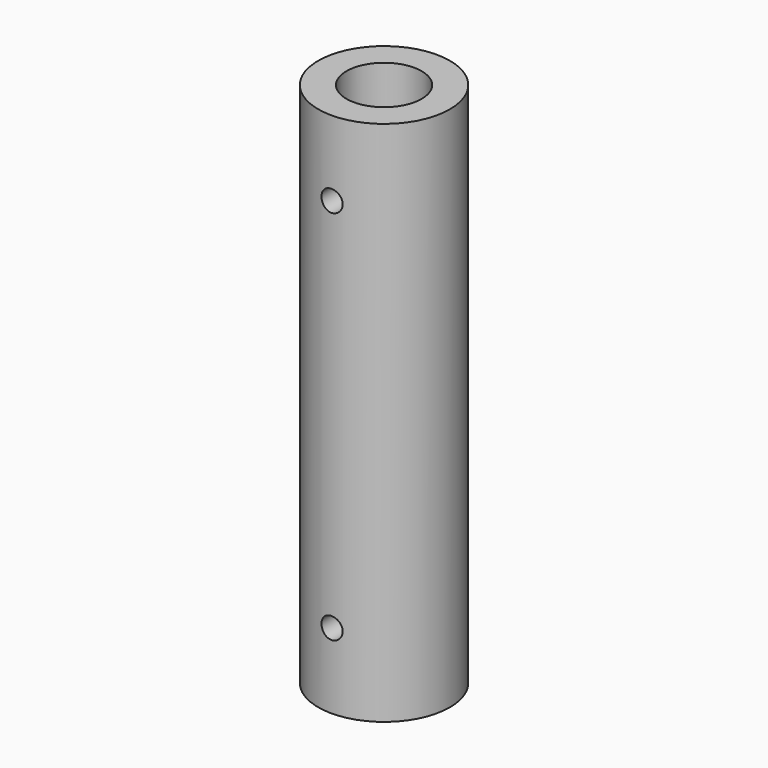
from build123d import *

# Parameters (mm, degrees)
F0_R     = 11.1125
F1_DEPTH = 44.45
F2_R     = 6.35
F3_DEPTH = 88.9
F5_R     = 1.7907
F6_DEPTH = 5.02121863


with BuildPart() as f1:
    # F0 (on Top) → F1 (new body, symmetric)
    with BuildSketch(Plane.XY):
        Circle(F0_R)
    extrude(amount=F1_DEPTH, both=True)

    # F2 (on face) → F3 (cut, through all)
    with BuildSketch(Plane.XY.offset(44.45)):
        Circle(F2_R)
    extrude(amount=-F3_DEPTH, mode=Mode.SUBTRACT)

    # F5 (on offset) → F6 (cut, through all)
    with BuildSketch(Plane.XZ.offset(11.1125)):
        with Locations((0, -31.75)):
            Circle(F5_R)
        with Locations((0, 31.75)):
            Circle(F5_R)
    extrude(amount=-F6_DEPTH, mode=Mode.SUBTRACT)


solid = f1.part
